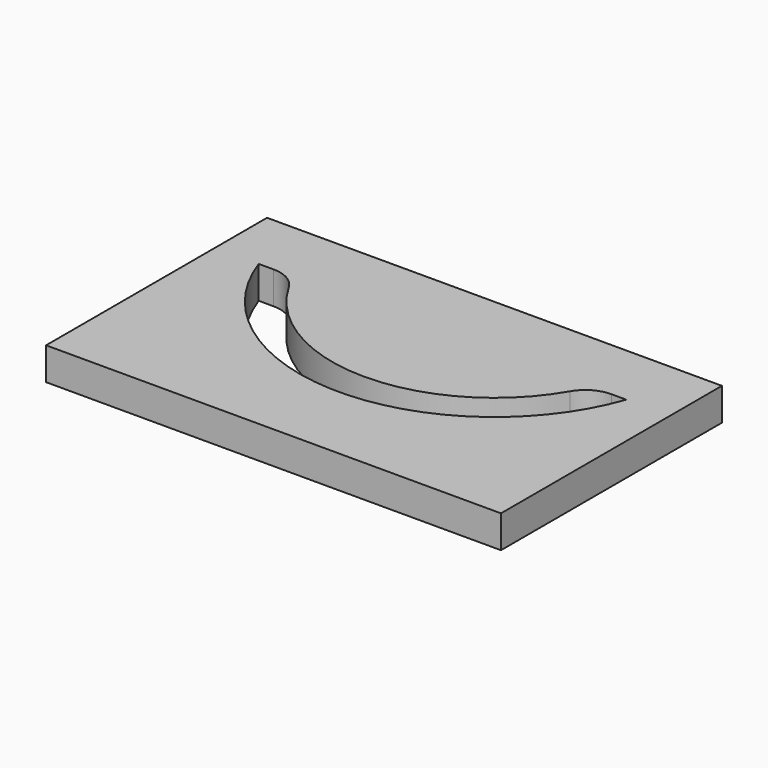
from build123d import *

# Parameters (mm, degrees)
F0_W     = 88.9
F0_H     = 53.975
F1_DEPTH = 6.35


with BuildPart() as f1:
    # F0 (on Top) → F1 (new body)
    with BuildSketch(Plane.XY):
        with Locations((-44.45, 26.9875)):
            Rectangle(F0_W, F0_H)
        with BuildLine():
            ThreePointArc((-77.445568, 41.275), (-74.270568, 40.424261), (-71.946307, 38.1))
            ThreePointArc((-71.946307, 38.1), (-44.45, 22.225), (-16.953693, 38.1))
            ThreePointArc((-16.953693, 38.1), (-14.629432, 40.424261), (-11.454432, 41.275))
            Line((-11.454432, 41.275), (-8.528976, 41.275))
            ThreePointArc((-8.528976, 41.275), (-44.45, 15.875), (-80.371024, 41.275))
            Line((-80.371024, 41.275), (-77.445568, 41.275))
        make_face(mode=Mode.SUBTRACT)
    extrude(amount=F1_DEPTH)


solid = f1.part
